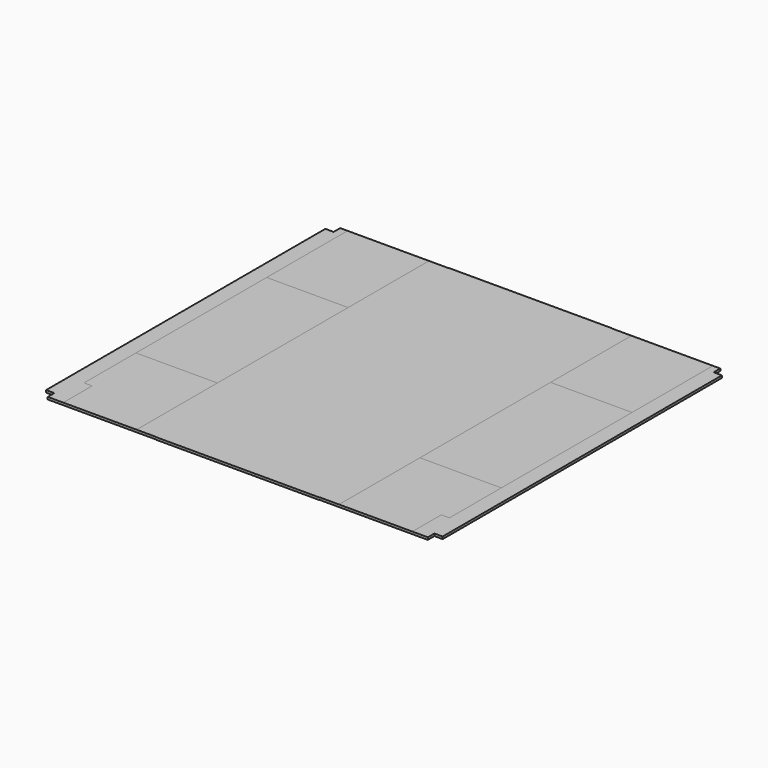
from build123d import *

# Parameters (mm, degrees)
SKETCH_W     = 212
SKETCH_H     = 472
PAD_DEPTH    = 3
SKETCH002_W  = 471.2
SKETCH002_H  = 471.2
PAD002_DEPTH = 3
SKETCH004_W  = 291.2
SKETCH004_H  = 471.2
PAD004_DEPTH = 3
PAD001_DEPTH = 3
SKETCH003_W  = 211.2
SKETCH003_H  = 471.2
PAD003_DEPTH = 3
PAD005_DEPTH = 3
SKETCH006_W  = 30
SKETCH006_H  = 66
POCKET_DEPTH = 5
SKETCH007_W  = 261
SKETCH007_H  = 210.6
PAD006_DEPTH = 3
SKETCH008_W  = 471
SKETCH008_H  = 207.6
PAD007_DEPTH = 3
SKETCH009_W  = 471
SKETCH009_H  = 210.6
PAD008_DEPTH = 3
SKETCH010_W  = 261
SKETCH010_H  = 471
PAD009_DEPTH = 3


with BuildPart() as obj1:
    # Sketch → Pad (new body)
    with BuildSketch(Plane.XY):
        Rectangle(SKETCH_W, SKETCH_H)
    extrude(amount=PAD_DEPTH)


with BuildPart() as obj2:
    # Sketch002 → Pad002 (new body)
    with BuildSketch(Plane.XY):
        Rectangle(SKETCH002_W, SKETCH002_H)
    extrude(amount=PAD002_DEPTH)


with BuildPart() as obj3:
    # Sketch004 → Pad004 (new body)
    with BuildSketch(Plane.XY):
        Rectangle(SKETCH004_W, SKETCH004_H)
    extrude(amount=PAD004_DEPTH)


with BuildPart() as obj4:
    # Sketch001 → Pad001 (new body)
    with BuildSketch(Plane.XY):
        Polygon((-245, 225), (-255.6, 225), (-255.6, -225), (-245, -225), (-245, -235.6), (245, -235.6), (245, -225), (255.6, -225), (255.6, 225), (245, 225), (245, 235.6), (-245, 235.6), align=None)
    extrude(amount=PAD001_DEPTH)


with BuildPart() as obj5:
    # Sketch003 → Pad003 (new body)
    with BuildSketch(Plane.XY):
        Rectangle(SKETCH003_W, SKETCH003_H)
    extrude(amount=PAD003_DEPTH)


with BuildPart() as obj6:
    # Sketch005 → Pad005 (new body)
    with BuildSketch(Plane.XY):
        Polygon((225, -225), (235.5, -225), (235.5, 235.5), (-235.5, 235.5), (-235.5, -225), (-225, -225), (-225, -235.5), (225, -235.5), align=None)
    extrude(amount=PAD005_DEPTH)

    # Sketch006 (on Face10 of Pad005) → Pocket (cut)
    with BuildSketch(Plane.XY.offset(3)):
        with Locations((240, 12)):
            Rectangle(SKETCH006_W, SKETCH006_H)
        with Locations((-240, 12)):
            Rectangle(SKETCH006_W, SKETCH006_H)
        with Locations((-240, -222)):
            Rectangle(SKETCH006_W, SKETCH006_H)
        with Locations((240, -222)):
            Rectangle(SKETCH006_W, SKETCH006_H)
    extrude(amount=-POCKET_DEPTH, mode=Mode.SUBTRACT)


with BuildPart() as obj7:
    # Sketch007 → Pad006 (new body)
    with BuildSketch(Plane.XY):
        Rectangle(SKETCH007_W, SKETCH007_H)
    extrude(amount=PAD006_DEPTH)


with BuildPart() as obj8:
    # Sketch008 → Pad007 (new body)
    with BuildSketch(Plane.XY):
        Rectangle(SKETCH008_W, SKETCH008_H)
    extrude(amount=PAD007_DEPTH)


with BuildPart() as obj9:
    # Sketch009 → Pad008 (new body)
    with BuildSketch(Plane.XY):
        Rectangle(SKETCH009_W, SKETCH009_H)
    extrude(amount=PAD008_DEPTH)


with BuildPart() as obj10:
    # Sketch010 → Pad009 (new body)
    with BuildSketch(Plane.XY):
        Rectangle(SKETCH010_W, SKETCH010_H)
    extrude(amount=PAD009_DEPTH)


solid = Compound([obj1.part, obj2.part, obj3.part, obj4.part, obj5.part, obj6.part, obj7.part, obj8.part, obj9.part, obj10.part])
